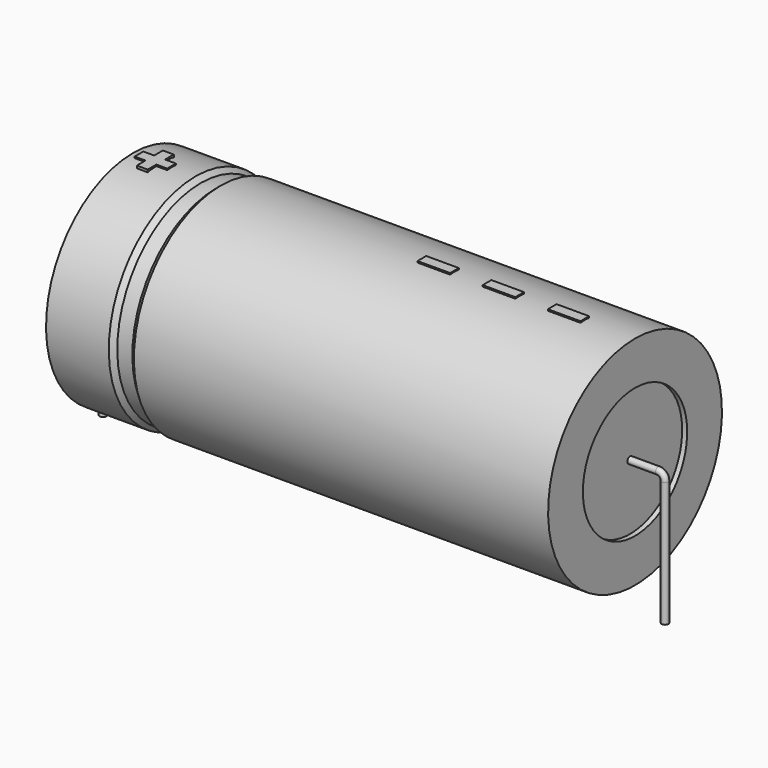
from build123d import *

# Parameters (mm, degrees)
SKETCH_R    = 0.45
SKETCH004_W = 4.35
SKETCH004_H = 1.45
PAD_DEPTH   = 14.645


with BuildPart() as sweep_body:
    # Sweep: sweep along a path in Sketch001
    with BuildLine(Plane.XZ) as sweep_path:
        Line((0, -3), (0, 13.7))
        ThreePointArc((0, 13.7), (0.263601, 14.336393), (0.899993, 14.6))
        Line((0.899993, 14.6), (74.1, 14.6))
        ThreePointArc((74.1, 14.6), (74.736396, 14.336396), (75, 13.7))
        Line((75, 13.7), (75, -3))
    # Sketch → Sweep (sweep)
    with BuildSketch(Plane.XY.offset(-2)):
        Circle(SKETCH_R)
    sweep(path=sweep_path.line)


with BuildPart() as revolution:
    # Sketch002 → Revolution (revolve)
    with BuildSketch(Plane.XZ):
        Polygon((4, 29.1), (4, 23.3), (71, 23.3), (71, 29.1), (15.725, 29.1), (15.055, 28.52), (13.045, 28.52), (12.375, 29.1), align=None)
    revolve(axis=Axis((6.97588, 0, 14.6), (1, 0, 0)))


with BuildPart() as revolution001:
    # Sketch003 → Revolution001 (revolve)
    with BuildSketch(Plane.XZ):
        Polygon((4.67, 28.52), (8.02, 28.52), (8.02, 16.05), (66.98, 16.05), (66.98, 28.52), (70.33, 28.52), (70.33, 14.6), (4.67, 14.6), align=None)
    revolve(axis=Axis((6.97588, 0, 14.6), (1, 0, 0)))


with BuildPart() as pad:
    # Sketch004 → Pad (new body)
    with BuildSketch(Plane.XY.offset(14.6)):
        with Locations((62.125, 0)):
            Rectangle(SKETCH004_W, SKETCH004_H)
        with Locations((53.425, 0)):
            Rectangle(SKETCH004_W, SKETCH004_H)
        with Locations((44.725, 0)):
            Rectangle(SKETCH004_W, SKETCH004_H)
        Polygon((6.254, 0.725), (4.804, 0.725), (4.804, -0.725), (6.254, -0.725), (6.254, -2.175), (7.704, -2.175), (7.704, -0.725), (9.154, -0.725), (9.154, 0.725), (7.704, 0.725), (7.704, 2.175), (6.254, 2.175), align=None)
    extrude(amount=PAD_DEPTH)


solid = Compound([sweep_body.part, revolution.part, revolution001.part, pad.part])
